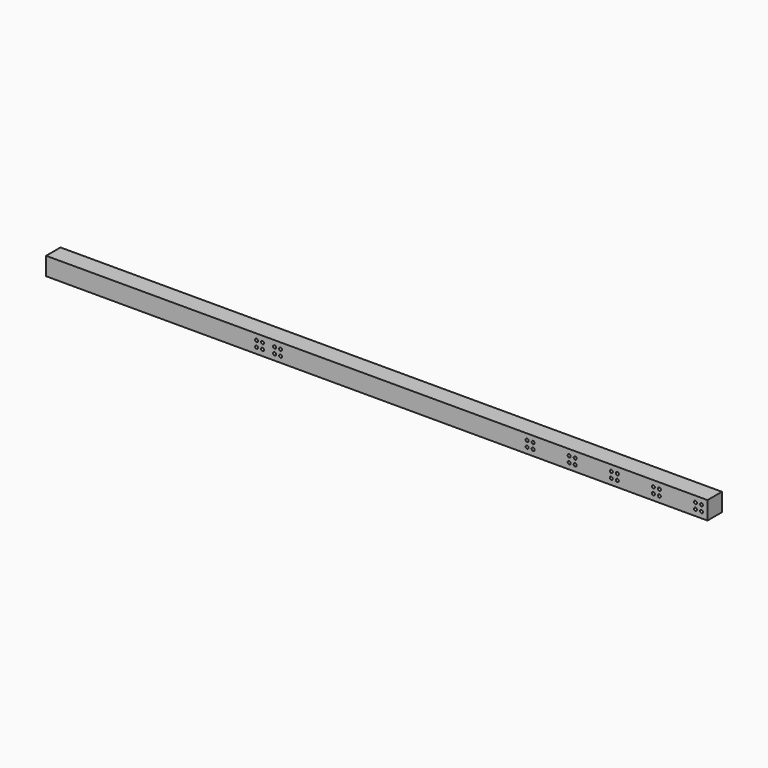
from build123d import *

# Parameters (mm, degrees)
F0_W     = 1100
F0_H     = 30
F1_DEPTH = 15
F3_D     = 5


with BuildPart() as f1:
    # F0 (on Front) → F1 (new body, symmetric)
    with BuildSketch(Plane.XZ):
        Rectangle(F0_W, F0_H)
    extrude(amount=F1_DEPTH, both=True)

    # F3 (through all)
    with Locations(Plane.XZ.offset(15)):
        with Locations((-170, 5), (-170, -5), (-160, -5), (-160, 5), (530, 5), (530, -5), (540, 5), (540, -5), (470, 5), (460, 5), (460, -5), (470, -5), (250, 5), (250, -5), (260, -5), (260, 5), (320, 5), (320, -5), (330, -5), (330, 5), (390, 5), (390, -5), (400, -5), (400, 5), (-190, 5), (-200, 5), (-200, -5), (-190, -5)):
            Hole(F3_D / 2)


solid = f1.part
